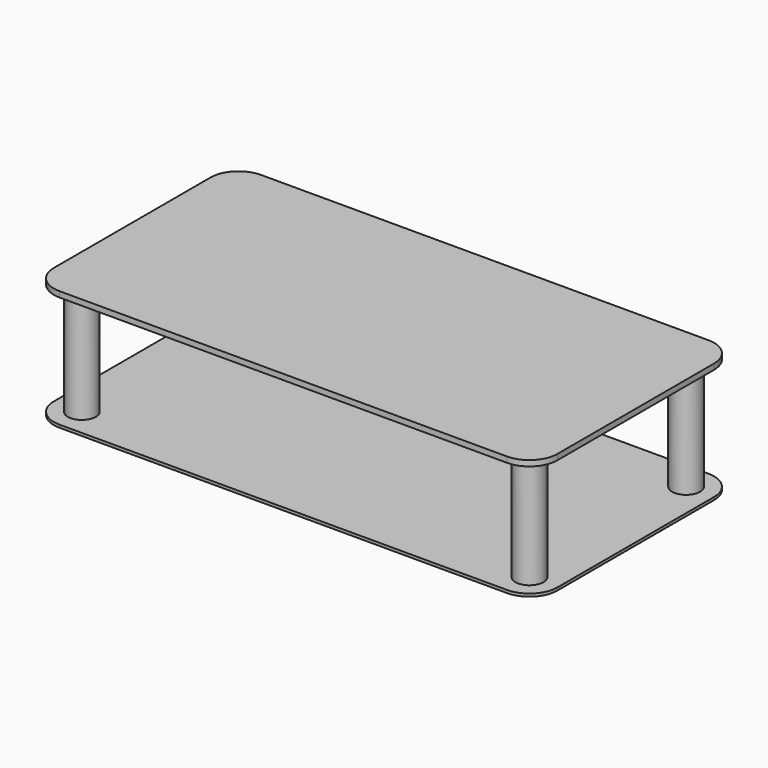
from build123d import *

# Parameters (mm, degrees)
F0_W     = 900
F0_H     = 450
F1_DEPTH = 5
F2_R     = 25
F3_DEPTH = 200
F4_W     = 900
F4_H     = 450
F5_DEPTH = 10
F6_R     = 50
F6_2_R   = 50


with BuildPart() as f1:
    # F0 (on Top) → F1 (new body)
    with BuildSketch(Plane.XY):
        Rectangle(F0_W, F0_H)
    extrude(amount=F1_DEPTH)

    # F2 (on face) → F3 (join)
    with BuildSketch(Plane.XY.offset(5)):
        with Locations((-400, 175)):
            Circle(F2_R)
        with Locations((400, 175)):
            Circle(F2_R)
        with Locations((-400, -175)):
            Circle(F2_R)
        with Locations((400, -175)):
            Circle(F2_R)
    extrude(amount=F3_DEPTH)

    # F6
    f6_edges = [f1.edges().sort_by_distance(p)[0] for p in [
        (-450, -225, 2.5),
        (450, -225, 2.5),
        (450, 225, 2.5),
        (-450, 225, 2.5),
    ]]
    fillet(f6_edges, radius=F6_R)


with BuildPart() as f5:
    # F4 (on face) → F5 (new body)
    with BuildSketch(Plane.XY.offset(205)):
        Rectangle(F4_W, F4_H)
    extrude(amount=F5_DEPTH)

    # F6#2
    f6_2_edges = [f5.edges().sort_by_distance(p)[0] for p in [
        (-450, -225, 210),
        (450, -225, 210),
        (450, 225, 210),
        (-450, 225, 210),
    ]]
    fillet(f6_2_edges, radius=F6_2_R)


solid = Compound([f1.part, f5.part])
